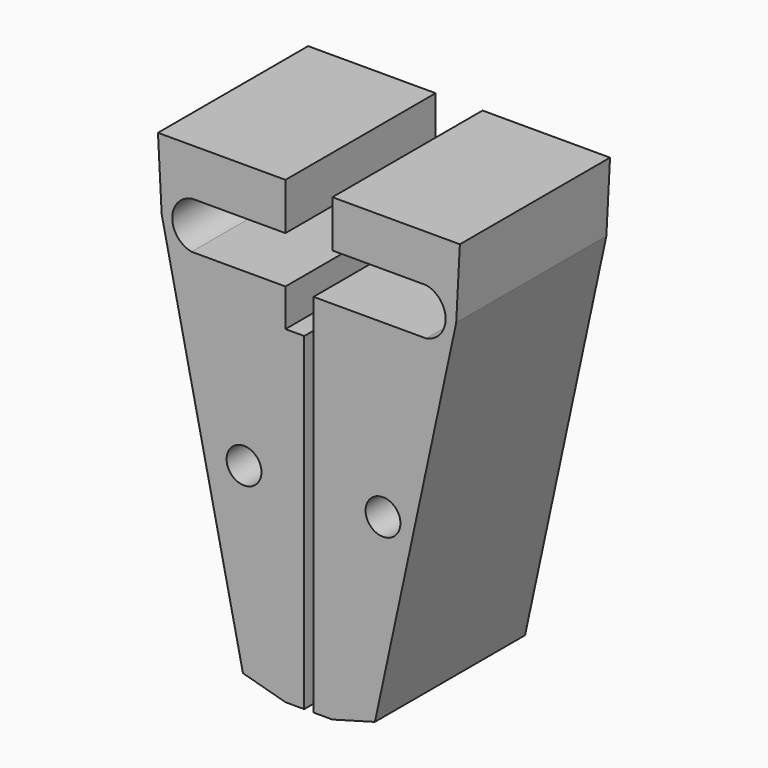
from build123d import *

# Parameters (mm, degrees)
F0_R     = 1.8592628509
F0_W     = 2
F0_H     = 34.9191774971
F1_DEPTH = 20
F0_H_2   = 35
F3_D     = 0.5
F3_DEPTH = 2
F3_TIP   = 0.1502151548


with BuildPart() as f1:
    # F0 (on Front) → F1 (new body)
    with BuildSketch(Plane.XZ):
        with BuildLine():
            Line((30.0273526112, 22.2264664745), (38.6886444998, 62.4758128023))
            Line((38.6886444998, 62.4758128023), (39.0815468509, 69.9758128023))
            Line((39.0815468509, 69.9758128023), (25.4968045878, 69.9758128023))
            Line((25.4968045878, 69.9758128023), (25.4968045878, 64.9758128023))
            Line((25.4968045878, 64.9758128023), (35.4968045878, 64.9758128023))
            ThreePointArc((35.4968045878, 64.9758128023), (37.5613964893, 62.4758128023), (35.4968045878, 59.9758128023))
            Line((35.4968045878, 59.9758128023), (25.4968045878, 59.9758128023))
            Line((25.4968045878, 59.9758128023), (25.4968045878, 55.8949902994))
            Line((25.4968045878, 55.8949902994), (25.4968045878, 20.9758128023))
            Line((25.4968045878, 20.9758128023), (30.0273526112, 22.2264664745))
        make_face()
        with Locations((30.8911041659, 41.7320145176)):
            Circle(F0_R, mode=Mode.SUBTRACT)
        with Locations((24.4968045878, 38.4354015509)):
            Rectangle(F0_W, F0_H)
        Polygon((23.4968045878, 55.8949902994), (25.4968045878, 55.8949902994), (25.4968045878, 59.9758128023), (23.4868045878, 59.9758128023), align=None)
    extrude(amount=F1_DEPTH)


with BuildPart() as f1b:
    # F0 (on Front) → F1, piece 2 (new body)
    with BuildSketch(Plane.XZ):
        with Locations((21.4968045878, 38.4758128023)):
            Rectangle(F0_W, F0_H_2)
        with BuildLine():
            Line((15.9662565644, 22.2264664745), (20.4968045878, 20.9758128023))
            Line((20.4968045878, 20.9758128023), (20.4968045878, 55.9758128023))
            Line((20.4968045878, 55.9758128023), (20.4968045878, 59.9758128023))
            Line((20.4968045878, 59.9758128023), (10.4968045878, 59.9758128023))
            ThreePointArc((10.4968045878, 59.9758128023), (8.4322126863, 62.4758128023), (10.4968045878, 64.9758128023))
            Line((10.4968045878, 64.9758128023), (20.4968045878, 64.9758128023))
            Line((20.4968045878, 64.9758128023), (20.4968045878, 69.9758128023))
            Line((20.4968045878, 69.9758128023), (6.9120623247, 69.9758128023))
            Line((6.9120623247, 69.9758128023), (7.3049646759, 62.4758128023))
            Line((7.3049646759, 62.4758128023), (15.9662565644, 22.2264664745))
        make_face()
        with Locations((16.0825050097, 41.7320145176)):
            Circle(F0_R, mode=Mode.SUBTRACT)
    extrude(amount=F1_DEPTH)

    # F3
    with Locations(Plane(origin=(0, 0, 20.9758128023), x_dir=(1, 0, 0), z_dir=(0, 0, -1))):
        with Locations((22.4968045878, 10)):
            Hole(F3_D / 2, depth=F3_DEPTH)
            with Locations((0, 0, -(F3_DEPTH + F3_TIP / 2))):  # 118° drill point
                Cone(0, F3_D / 2, F3_TIP, mode=Mode.SUBTRACT)


solid = Compound([f1.part, f1b.part])
